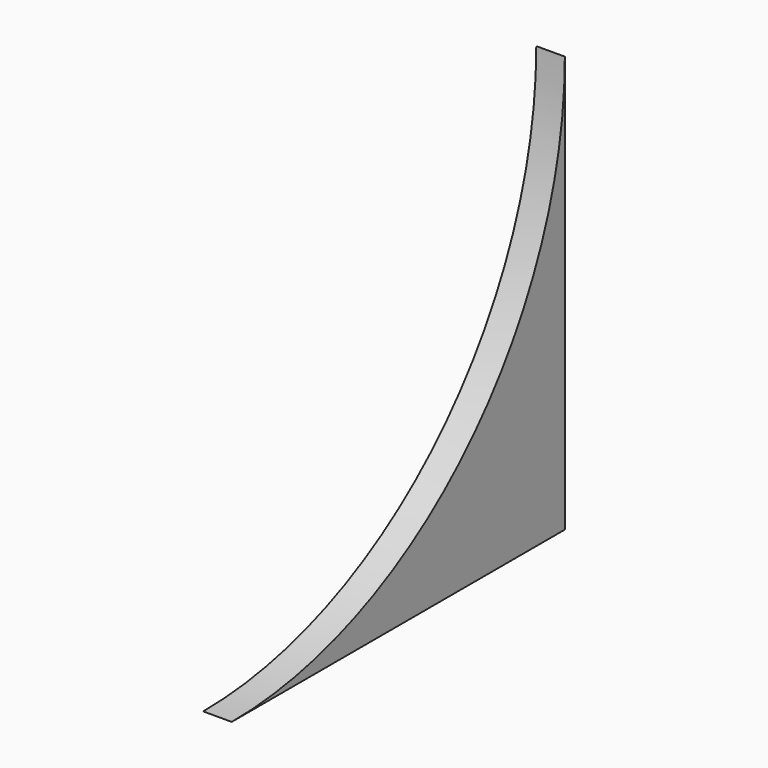
from build123d import *

# Parameters (mm, degrees)
CIRCLE006_R        = 20
EXTRUSION023_DEPTH = 1.371598
RECTANGLE013_W     = 20
RECTANGLE013_H     = 20
EXTRUSION022_DEPTH = 1.371598


with BuildPart() as extrusion023:
    # Circle006 (on Rectangle) → Extrusion023 (new body)
    with BuildSketch(Plane(origin=(-782.323582, -43.476219, 16.366052), x_dir=(0, -1, 0), z_dir=(-1, 0, 0))):
        Circle(CIRCLE006_R)
    extrude(amount=-EXTRUSION023_DEPTH)


with BuildPart() as cut004006005004002008019023005025006:
    # Rectangle013 → Extrusion022 (new body)
    with BuildSketch(Plane(origin=(-782.323582, -23.476219, -3.633948), x_dir=(0, -1, 0), z_dir=(-1, 0, 0))):
        with Locations((10, 10)):
            Rectangle(RECTANGLE013_W, RECTANGLE013_H)
    extrude(amount=-EXTRUSION022_DEPTH)

    # Cut004006005004002008019023005025006: cut Extrusion023
    add(extrusion023.part, mode=Mode.SUBTRACT)


solid = cut004006005004002008019023005025006.part
